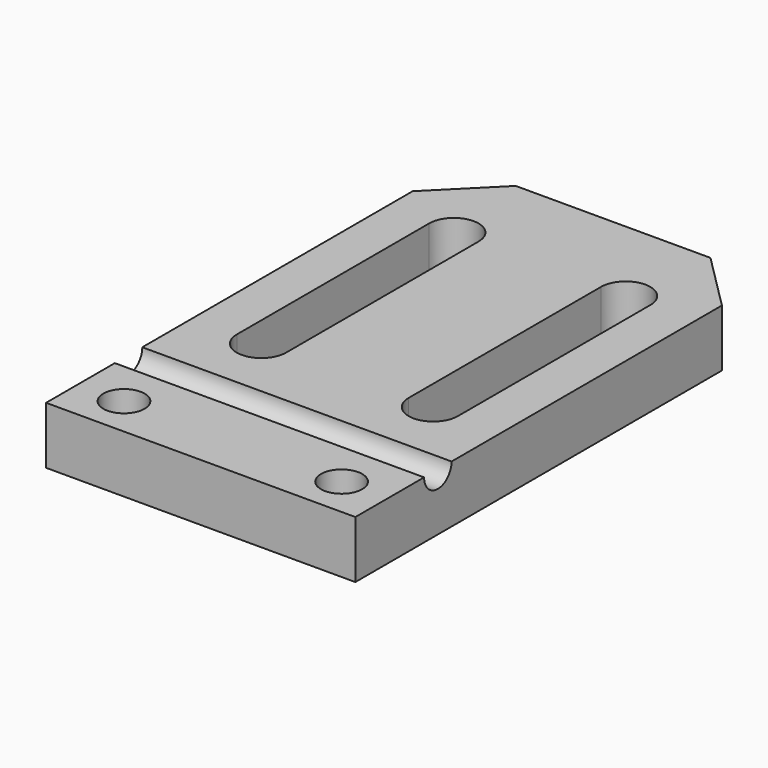
from build123d import *

# Parameters (mm, degrees)
F0_W     = 27
F0_H     = 45
F0_R     = 1.8
F1_DEPTH = 5
F3_DEPTH = 27
F4_DEPTH = 2
F5_SIZE  = 5


with BuildPart() as f1:
    # F0 (on Top) → F1 (new body)
    with BuildSketch(Plane.XY):
        with Locations((13.5, -22.5)):
            Rectangle(F0_W, F0_H)
        Polygon((0.709103, -41.5), (2.354552, -38.65), (5.645448, -38.65), (7.290897, -41.5), (5.645448, -44.35), (2.354552, -44.35), align=None, mode=Mode.SUBTRACT)
        Polygon((19.709103, -41.5), (21.354552, -38.65), (24.645448, -38.65), (26.290897, -41.5), (24.645448, -44.35), (21.354552, -44.35), align=None, mode=Mode.SUBTRACT)
        with BuildLine():
            Line((3.85, -29), (3.85, -8))
            ThreePointArc((3.85, -8), (6, -5.85), (8.15, -8))
            Line((8.15, -8), (8.15, -29))
            ThreePointArc((8.15, -29), (6, -31.15), (3.85, -29))
        make_face(mode=Mode.SUBTRACT)
        with BuildLine():
            Line((18.85, -29), (18.85, -8))
            ThreePointArc((18.85, -8), (21, -5.85), (23.15, -8))
            Line((23.15, -8), (23.15, -29))
            ThreePointArc((23.15, -29), (21, -31.15), (18.85, -29))
        make_face(mode=Mode.SUBTRACT)
        Polygon((24.645448, -38.65), (21.354552, -38.65), (19.709103, -41.5), (21.354552, -44.35), (24.645448, -44.35), (26.290897, -41.5), align=None)
        with Locations((23, -41.5)):
            Circle(F0_R, mode=Mode.SUBTRACT)
        Polygon((5.645448, -38.65), (2.354552, -38.65), (0.709103, -41.5), (2.354552, -44.35), (5.645448, -44.35), (7.290897, -41.5), align=None)
        with Locations((4, -41.5)):
            Circle(F0_R, mode=Mode.SUBTRACT)
    extrude(amount=F1_DEPTH)

    # F2 (on face) → F3 (cut, through all)
    with BuildSketch(Plane.YZ.offset(27)):
        with BuildLine():
            Line((-34.5, 5), (-37.5, 5))
            ThreePointArc((-37.5, 5), (-36, 3.5), (-34.5, 5))
        make_face()
    extrude(amount=-F3_DEPTH, mode=Mode.SUBTRACT)

    # F0 (on Top) → F4 (cut)
    with BuildSketch(Plane.XY):
        with Locations((4, -41.5)):
            Circle(F0_R)
        with Locations((23, -41.5)):
            Circle(F0_R)
        Polygon((5.645448, -38.65), (2.354552, -38.65), (0.709103, -41.5), (2.354552, -44.35), (5.645448, -44.35), (7.290897, -41.5), align=None)
        with Locations((4, -41.5)):
            Circle(F0_R, mode=Mode.SUBTRACT)
        Polygon((24.645448, -38.65), (21.354552, -38.65), (19.709103, -41.5), (21.354552, -44.35), (24.645448, -44.35), (26.290897, -41.5), align=None)
        with Locations((23, -41.5)):
            Circle(F0_R, mode=Mode.SUBTRACT)
    extrude(amount=F4_DEPTH, mode=Mode.SUBTRACT)

    # F5
    f5_edges = [f1.edges().sort_by_distance(p)[0] for p in [
        (0, 0, 2.5),
        (27, 0, 2.5),
    ]]
    chamfer(f5_edges, length=F5_SIZE)


solid = f1.part
